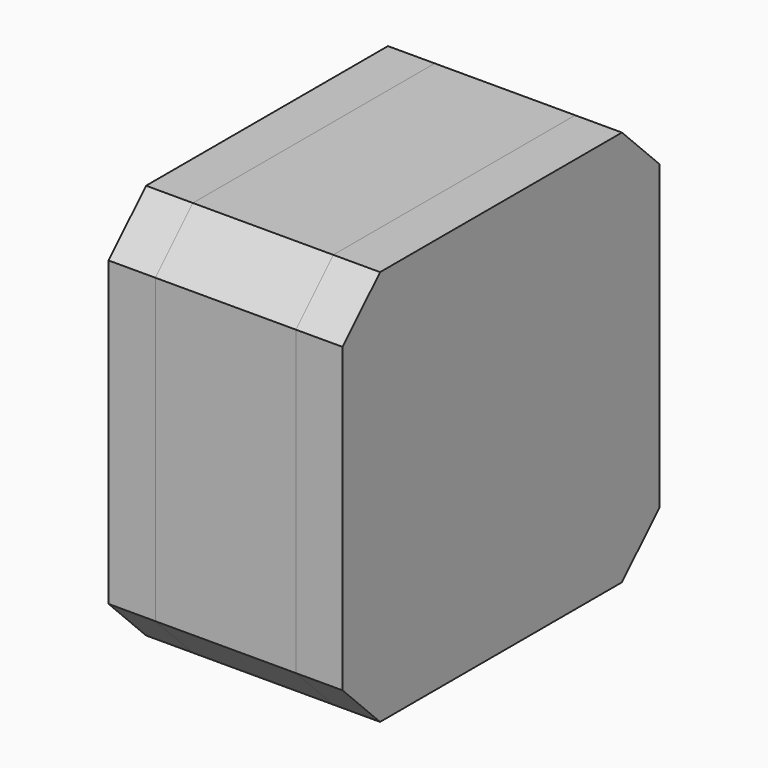
from build123d import *

# Parameters (mm, degrees)
F0_W     = 42.3
F0_H     = 42.3
F1_DEPTH = 5
F2_SIZE  = 5
F3_DEPTH = 15
F4_DEPTH = 5
F5_R     = 10
F6_DEPTH = 2


with BuildPart() as f1:
    # F0 (on Right) → F1 (new body)
    with BuildSketch(Plane.YZ):
        Rectangle(F0_W, F0_H)
    extrude(amount=F1_DEPTH)

    # F2
    f2_edges = [f1.edges().sort_by_distance(p)[0] for p in [
        (2.5, -21.15, 21.15),
        (2.5, -21.15, -21.15),
        (2.5, 21.15, -21.15),
        (2.5, 21.15, 21.15),
    ]]
    chamfer(f2_edges, length=F2_SIZE)


with BuildPart() as f3:
    # F3 (new): a face of the model
    f3_faces = [f1.part.faces().sort_by_distance(p)[0] for p in [
        (5, 0, 0),
    ]]
    extrude(f3_faces, amount=F3_DEPTH)


with BuildPart() as f4:
    # F4 (new): a face of the model
    f4_faces = [f3.part.faces().sort_by_distance(p)[0] for p in [
        (20, 0, 0),
    ]]
    extrude(f4_faces, amount=F4_DEPTH)


with BuildPart() as f1_1:
    add(f1.part)

    # F5 (on face) → F6 (join)
    with BuildSketch(Plane(origin=(0, 0, 0), x_dir=(0, -1, 0), z_dir=(-1, 0, 0))):
        Circle(F5_R)
    extrude(amount=F6_DEPTH)


solid = Compound([f3.part, f4.part, f1_1.part])
